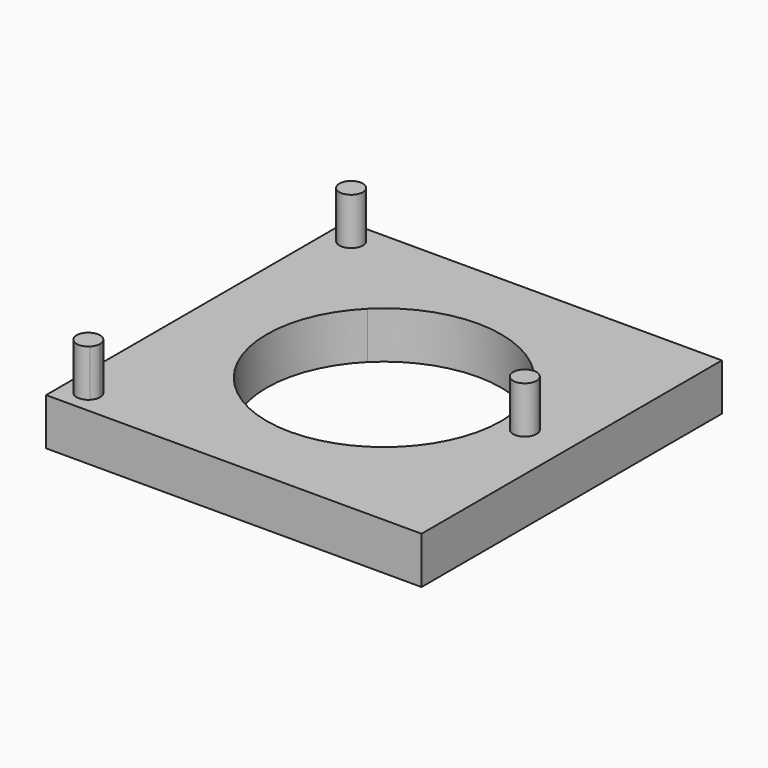
from build123d import *

# Parameters (mm, degrees)
F0_W     = 101.6
F0_H     = 101.6
F1_DEPTH = 12.7
F2_R     = 3.175
F3_DEPTH = 12.7
F4_R     = 3.175
F5_DEPTH = 12.7
F7_DEPTH = 25.4


with BuildPart() as f1:
    # F0 (on Top) → F1 (new body)
    with BuildSketch(Plane.XY):
        with Locations((-50.8, -50.8)):
            Rectangle(F0_W, F0_H)
    extrude(amount=F1_DEPTH)

    # F2 (on face) → F3 (join)
    with BuildSketch(Plane.XY.offset(12.7)):
        with BuildLine():
            Line((-95.25, -95.25), (-97.4950640303, -97.4950640303))
            ThreePointArc((-97.4950640303, -97.4950640303), (-95.25, -98.425), (-93.0049359697, -97.4950640303))
            Line((-93.0049359697, -97.4950640303), (-95.25, -95.25))
        make_face()
        with BuildLine():
            ThreePointArc((-93.0049359697, -93.0049359697), (-95.25, -92.075), (-97.4950640303, -93.0049359697))
            Line((-97.4950640303, -93.0049359697), (-95.25, -95.25))
            Line((-95.25, -95.25), (-93.0049359697, -93.0049359697))
        make_face()
        with BuildLine():
            Line((-95.25, -95.25), (-93.0049359697, -97.4950640303))
            ThreePointArc((-93.0049359697, -97.4950640303), (-92.3166824843, -96.4650198978), (-92.075, -95.25))
            ThreePointArc((-92.075, -95.25), (-92.3166824843, -94.0349801022), (-93.0049359697, -93.0049359697))
            Line((-93.0049359697, -93.0049359697), (-95.25, -95.25))
        make_face()
        with BuildLine():
            ThreePointArc((-97.4950640303, -93.0049359697), (-98.425, -95.25), (-97.4950640303, -97.4950640303))
            Line((-97.4950640303, -97.4950640303), (-95.25, -95.25))
            Line((-95.25, -95.25), (-97.4950640303, -93.0049359697))
        make_face()
        with Locations((-95.25, -6.35)):
            Circle(F2_R)
    extrude(amount=F3_DEPTH)

    # F4 (on face) → F5 (join)
    with BuildSketch(Plane.XY.offset(12.7)):
        with Locations((-12.7, -50.8)):
            Circle(F4_R)
    extrude(amount=F5_DEPTH)

    # F6 (on face) → F7 (cut)
    with BuildSketch(Plane.XY.offset(12.7)):
        with BuildLine():
            ThreePointArc((-73.2506403027, -28.3493596973), (-82.55, -50.8), (-73.2506403027, -73.2506403027))
            Line((-73.2506403027, -73.2506403027), (-50.8, -50.8))
            Line((-50.8, -50.8), (-73.2506403027, -28.3493596973))
        make_face()
        with BuildLine():
            Line((-50.8, -50.8), (-28.3493596973, -28.3493596973))
            ThreePointArc((-28.3493596973, -28.3493596973), (-50.8, -19.05), (-73.2506403027, -28.3493596973))
            Line((-73.2506403027, -28.3493596973), (-50.8, -50.8))
        make_face()
        with BuildLine():
            Line((-50.8, -50.8), (-28.3493596973, -73.2506403027))
            ThreePointArc((-28.3493596973, -73.2506403027), (-21.4668248428, -62.9501989776), (-19.05, -50.8))
            ThreePointArc((-19.05, -50.8), (-21.4668248428, -38.6498010224), (-28.3493596973, -28.3493596973))
            Line((-28.3493596973, -28.3493596973), (-50.8, -50.8))
        make_face()
        with BuildLine():
            ThreePointArc((-73.2506403027, -73.2506403027), (-50.8, -82.55), (-28.3493596973, -73.2506403027))
            Line((-28.3493596973, -73.2506403027), (-50.8, -50.8))
            Line((-50.8, -50.8), (-73.2506403027, -73.2506403027))
        make_face()
    extrude(amount=-F7_DEPTH, mode=Mode.SUBTRACT)


solid = f1.part
